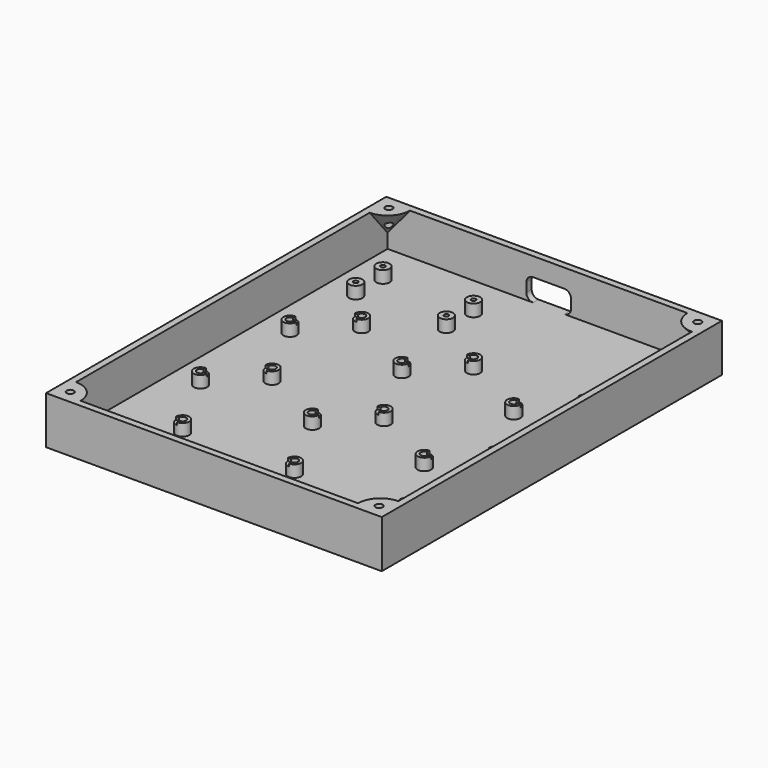
from build123d import *

# Parameters (mm, degrees)
PRISM001_DEPTH           = 5.5
CYLINDER013_R            = 1.65
CYLINDER013_DEPTH        = 10
ARRAY007_X_COUNT         = 3
ARRAY007_X_PITCH         = 50
ARRAY007_Y_COUNT         = 3
ARRAY007_Y_PITCH         = 50
BOX006_W                 = 20
BOX006_H                 = 10
BOX006_DEPTH             = 10
FILLET_R                 = 3
CYLINDER006_R            = 1.6
CYLINDER006_DEPTH        = 10
CYLINDER008_R            = 1
CYLINDER008_DEPTH        = 8.25
CYLINDER007_R            = 3
CYLINDER007_DEPTH        = 8.25
CONE_ANGLE               = 90
CLONE004_PLACEMENT_ANGLE = -90
CLONE005_PLACEMENT_ANGLE = 180
CLONE003_PLACEMENT_ANGLE = 90
BOX009_W                 = 10
BOX009_H                 = 10
BOX009_DEPTH             = 10
CYLINDER003_R            = 1
CYLINDER003_DEPTH        = 8.25
CYLINDER002_R            = 1
CYLINDER002_DEPTH        = 8.25
CYLINDER004_R            = 3
CYLINDER004_DEPTH        = 8.25
CYLINDER005_R            = 3
CYLINDER005_DEPTH        = 8.25
ARRAY005_X_COUNT         = 3
ARRAY005_X_PITCH         = 50
ARRAY005_Y_COUNT         = 3
ARRAY005_Y_PITCH         = 50
BOX004_W                 = 150
BOX004_H                 = 190
BOX004_DEPTH             = 21.3
THICKNESS_T              = -3


with BuildPart() as m3nut:
    # Prism001 → Prism001 (new body)
    with BuildSketch(Plane(origin=(1.11, 1.11, -8.7), x_dir=(1, 0, 0), z_dir=(0, 0, 1))):
        Polygon((3.35, 0), (1.675, 2.901185), (-1.675, 2.901185), (-3.35, 0), (-1.675, -2.901185), (1.675, -2.901185), align=None)
    extrude(amount=PRISM001_DEPTH)


with BuildPart() as clone_of_m3nut:
    # Clone024 base: copy of M3Nut
    add(m3nut.part)


with BuildPart() as clone_of_m3nut_1:
    # Clone024 placement: moved
    add(clone_of_m3nut.part.moved(Location((17.78, 17.78, 0))))


with BuildPart() as cylinder013:
    # Cylinder013 → Cylinder013 (new body)
    with BuildSketch(Plane(origin=(1.11, 1.11, -6.7), x_dir=(1, 0, 0), z_dir=(0, 0, 1))):
        Circle(CYLINDER013_R)
    extrude(amount=CYLINDER013_DEPTH)


with BuildPart() as clone_of_cylinder013:
    # Clone023 base: copy of Cylinder013
    add(cylinder013.part)


with BuildPart() as clone_of_cylinder013_1:
    # Clone023 placement: moved
    add(clone_of_cylinder013.part.moved(Location((17.78, 17.78, 0))))


with BuildPart() as array007:
    # Fusion019 base: copy of M3Nut
    add(m3nut.part)

    # Fusion019: union Clone of M3Nut, Clone of Cylinder013, Cylinder013
    add(clone_of_m3nut_1.part)
    add(clone_of_cylinder013_1.part)
    add(cylinder013.part)

    # Array007 X: Array007 ×3


with BuildPart() as array007_1:
    add(array007.part)
    with Locations(*[(i * ARRAY007_X_PITCH, 0, 0) for i in range(1, ARRAY007_X_COUNT)]):
        add(array007.part)

    # Array007 Y: Array007 ×3


with BuildPart() as array007_2:
    add(array007_1.part)
    with Locations(*[(0, i * ARRAY007_Y_PITCH, 0) for i in range(1, ARRAY007_Y_COUNT)]):
        add(array007_1.part)


with BuildPart() as fillet_body:
    # Box006 → Box006 (new body)
    with BuildSketch(Plane(origin=(50, 165, -2), x_dir=(1, 0, 0), z_dir=(0, 0, 1))):
        with Locations((10, 5)):
            Rectangle(BOX006_W, BOX006_H)
    extrude(amount=BOX006_DEPTH)

    # Fillet
    fillet_edges = [fillet_body.edges().sort_by_distance(p)[0] for p in [
        (50, 170, 8),
        (50, 170, -2),
        (70, 170, 8),
        (70, 170, -2),
    ]]
    fillet(fillet_edges, radius=FILLET_R)


with BuildPart() as cylinder006:
    # Cylinder006 → Cylinder006 (new body)
    with BuildSketch(Plane(origin=(-9, 169, 6.3), x_dir=(1, 0, 0), z_dir=(0, 0, 1))):
        Circle(CYLINDER006_R)
    extrude(amount=CYLINDER006_DEPTH)


with BuildPart() as clone_of_cylinder007:
    # Clone007 base: copy of Cylinder006
    add(cylinder006.part)


with BuildPart() as clone_of_cylinder007_1:
    # Clone007 placement: moved
    add(clone_of_cylinder007.part.moved(Location((138, 0, 0))))


with BuildPart() as clone_of_cylinder006:
    # Clone006 base: copy of Cylinder006
    add(cylinder006.part)


with BuildPart() as clone_of_cylinder006_1:
    # Clone006 placement: moved
    add(clone_of_cylinder006.part.moved(Location((138, -178, 0))))


with BuildPart() as fusion007:
    # Clone008 base: copy of Cylinder006
    add(cylinder006.part)


with BuildPart() as fusion007_1:
    # Clone008 placement: moved
    add(fusion007.part.moved(Location((0, -178, 0))))

    # Fusion007: union Clone of Cylinder007, Clone of Cylinder006, Cylinder006
    add(clone_of_cylinder007_1.part)
    add(clone_of_cylinder006_1.part)
    add(cylinder006.part)


with BuildPart() as cylinder008:
    # Cylinder008 → Cylinder008 (new body)
    with BuildSketch(Plane(origin=(18, 18, -5), x_dir=(1, 0, 0), z_dir=(0, 0, 1))):
        Circle(CYLINDER008_R)
    extrude(amount=CYLINDER008_DEPTH)


with BuildPart() as cut006:
    # Cylinder007 → Cylinder007 (new body)
    with BuildSketch(Plane(origin=(18, 18, -5), x_dir=(1, 0, 0), z_dir=(0, 0, 1))):
        Circle(CYLINDER007_R)
    extrude(amount=CYLINDER007_DEPTH)

    # Cut006: cut Cylinder008
    add(cylinder008.part, mode=Mode.SUBTRACT)


with BuildPart() as cut006_1:
    # Cut006 placement: moved
    add(cut006.part.moved(Location((23.896439, 119.471814, 0.15))))


with BuildPart() as clone_of_cut006:
    # Clone010 base: copy of Cut006
    add(cut006_1.part)


with BuildPart() as clone_of_cut006_1:
    # Clone010 placement: moved
    add(clone_of_cut006.part.moved(Location((-40.5, 15.2, 0))))


with BuildPart() as clone_of_cut007:
    # Clone011 base: copy of Cut006
    add(cut006_1.part)


with BuildPart() as clone_of_cut007_1:
    # Clone011 placement: moved
    add(clone_of_cut007.part.moved(Location((0, 15.2, 0))))


with BuildPart() as clone_of_cut008:
    # Clone012 base: copy of Cut006
    add(cut006_1.part)


with BuildPart() as clone_of_cut008_1:
    # Clone012 placement: moved
    add(clone_of_cut008.part.moved(Location((-40.5, 0, 0))))


with BuildPart() as cone:
    # Cone → Cone (revolve)
    with BuildSketch(Plane(origin=(-12, -12, 4.3), x_dir=(1, 0, 0), z_dir=(0, -1, 0))):
        Polygon((0, 0), (10, 12), (0, 12), align=None)
    revolve(axis=Axis((-12, -12, 4.3), (0, 0, 1)), revolution_arc=CONE_ANGLE)


with BuildPart() as clone_of_cone001:
    # Clone004 base: copy of Cone
    add(cone.part)


with BuildPart() as clone_of_cone001_1:
    # Clone004 placement: moved
    add(clone_of_cone001.part.moved(Location((0, 160, 0))).rotate(Axis((0, 160, 0), (0, 0, 1)), CLONE004_PLACEMENT_ANGLE))


with BuildPart() as clone_of_cone002:
    # Clone005 base: copy of Cone
    add(cone.part)


with BuildPart() as clone_of_cone002_1:
    # Clone005 placement: moved
    add(clone_of_cone002.part.moved(Location((120, 160, 0))).rotate(Axis((120, 160, 0), (0, 0, 1)), CLONE005_PLACEMENT_ANGLE))


with BuildPart() as clone_of_cone:
    # Clone003 base: copy of Cone
    add(cone.part)


with BuildPart() as clone_of_cone_1:
    # Clone003 placement: moved
    add(clone_of_cone.part.moved(Location((120, 0, 0))).rotate(Axis((120, 0, 0), (0, 0, 1)), CLONE003_PLACEMENT_ANGLE))


with BuildPart() as cube009:
    # Box009 → Box009 (new body)
    with BuildSketch(Plane(origin=(1.11, 1.11, 2.1), x_dir=(1, 0, 0), z_dir=(0, 0, 1))):
        with Locations((5, 5)):
            Rectangle(BOX009_W, BOX009_H)
    extrude(amount=BOX009_DEPTH)


with BuildPart() as fusion012:
    # Clone016 base: copy of Cube009
    add(cube009.part)


with BuildPart() as fusion012_1:
    # Clone016 placement: moved
    add(fusion012.part.moved(Location((7.78, 7.78, 0))))

    # Fusion012: union Cube009
    add(cube009.part)


with BuildPart() as cylinder003:
    # Cylinder003 → Cylinder003 (new body)
    with BuildSketch(Plane(origin=(18.89, 18.89, -4.95), x_dir=(1, 0, 0), z_dir=(0, 0, 1))):
        Circle(CYLINDER003_R)
    extrude(amount=CYLINDER003_DEPTH)


with BuildPart() as fusion013:
    # Cylinder002 → Cylinder002 (new body)
    with BuildSketch(Plane(origin=(1.11, 1.11, -4.95), x_dir=(1, 0, 0), z_dir=(0, 0, 1))):
        Circle(CYLINDER002_R)
    extrude(amount=CYLINDER002_DEPTH)

    # Fusion002: union Cylinder003
    add(cylinder003.part)

    # Fusion013: union Fusion012
    add(fusion012_1.part)


with BuildPart() as cylinder004:
    # Cylinder004 → Cylinder004 (new body)
    with BuildSketch(Plane(origin=(18.89, 18.89, -4.95), x_dir=(1, 0, 0), z_dir=(0, 0, 1))):
        Circle(CYLINDER004_R)
    extrude(amount=CYLINDER004_DEPTH)


with BuildPart() as array005:
    # Cylinder005 → Cylinder005 (new body)
    with BuildSketch(Plane(origin=(1.11, 1.11, -4.95), x_dir=(1, 0, 0), z_dir=(0, 0, 1))):
        Circle(CYLINDER005_R)
    extrude(amount=CYLINDER005_DEPTH)

    # Fusion003: union Cylinder004
    add(cylinder004.part)

    # Cut009: cut Fusion013
    add(fusion013.part, mode=Mode.SUBTRACT)

    # Array005 X: Array005 ×3


with BuildPart() as array005_1:
    add(array005.part)
    with Locations(*[(i * ARRAY005_X_PITCH, 0, 0) for i in range(1, ARRAY005_X_COUNT)]):
        add(array005.part)

    # Array005 Y: Array005 ×3


with BuildPart() as array005_2:
    add(array005_1.part)
    with Locations(*[(0, i * ARRAY005_Y_PITCH, 0) for i in range(1, ARRAY005_Y_COUNT)]):
        add(array005_1.part)


with BuildPart() as cut012:
    # Box004 → Box004 (new body)
    with BuildSketch(Plane(origin=(-15, -15, -5), x_dir=(1, 0, 0), z_dir=(0, 0, 1))):
        with Locations((75, 95)):
            Rectangle(BOX004_W, BOX004_H)
    extrude(amount=BOX004_DEPTH)

    # Thickness
    thickness_openings = [cut012.faces().sort_by_distance(p)[0] for p in [
        (60, 80, 16.3),
    ]]
    offset(amount=THICKNESS_T, openings=thickness_openings)

    # Fusion014: union Array005
    add(array005_2.part)

    # Fusion015: union Cone, Clone of Cone001, Clone of Cone002, Clone of Cone
    add(cone.part)
    add(clone_of_cone001_1.part)
    add(clone_of_cone002_1.part)
    add(clone_of_cone_1.part)

    # Fusion016: union Clone of Cut006, Clone of Cut007, Clone of Cut008, Cut006
    add(clone_of_cut006_1.part)
    add(clone_of_cut007_1.part)
    add(clone_of_cut008_1.part)
    add(cut006_1.part)

    # Cut010: cut Fusion007
    add(fusion007_1.part, mode=Mode.SUBTRACT)

    # Cut011: cut Fillet body
    add(fillet_body.part, mode=Mode.SUBTRACT)

    # Cut012: cut Array007
    add(array007_2.part, mode=Mode.SUBTRACT)


solid = cut012.part
